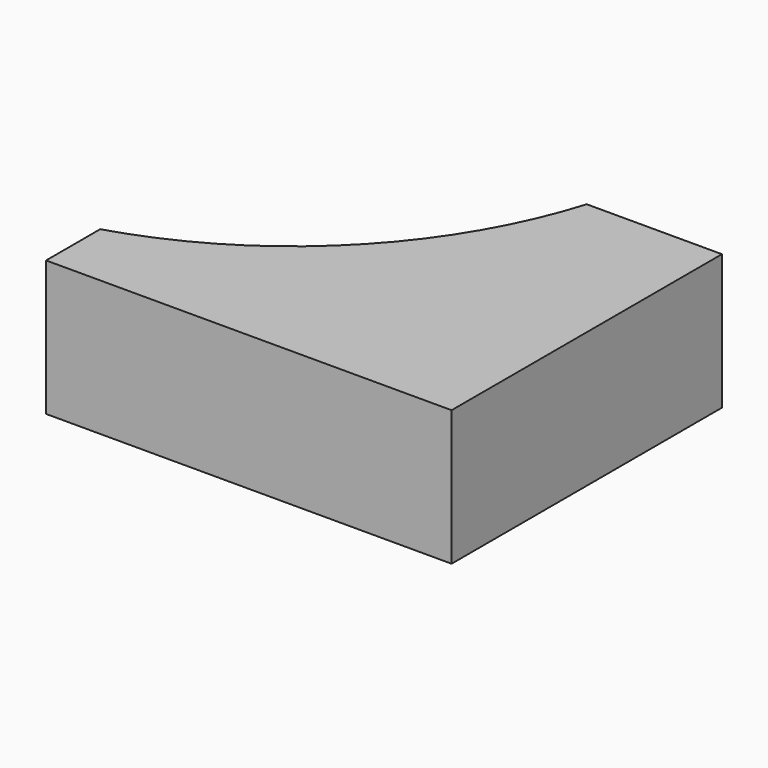
from build123d import *

# Parameters (mm, degrees)
F0_W     = 25.4
F0_H     = 6.35
F1_DEPTH = 12.7


with BuildPart() as f1:
    # F0 (on Top) → F1 (new body)
    with BuildSketch(Plane.XY):
        with BuildLine():
            Line((0, 0), (0, 25.4))
            ThreePointArc((0, 25.4), (-9.518756, 9.518756), (-25.4, 0))
            Line((-25.4, 0), (0, 0))
        make_face()
        Polygon((12.7, 25.4), (0, 25.4), (0, 0), (0, -6.35), (12.7, -6.35), align=None)
        with Locations((-12.7, -3.175)):
            Rectangle(F0_W, F0_H)
    extrude(amount=F1_DEPTH)


solid = f1.part
